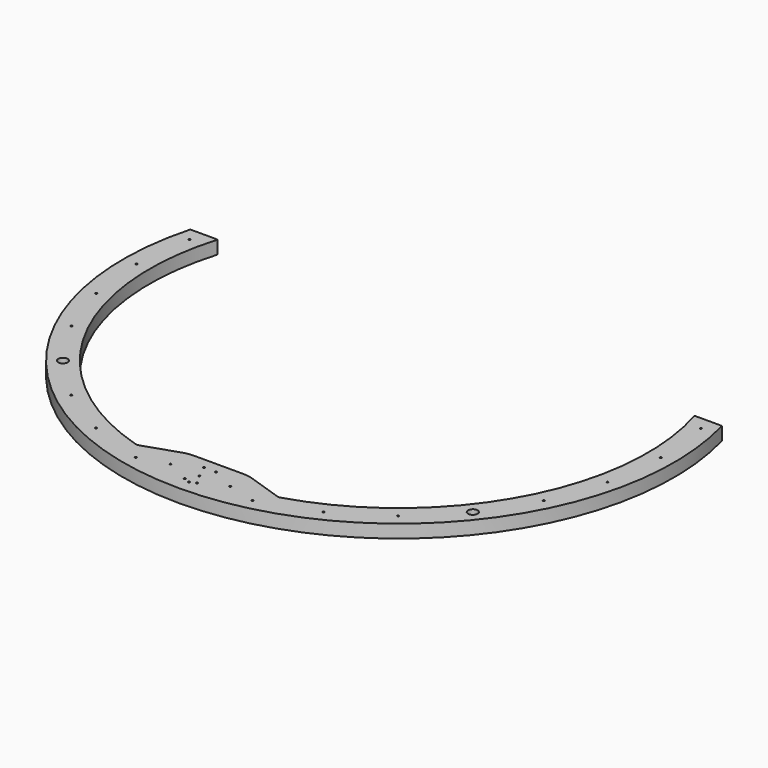
from build123d import *

# Parameters (mm, degrees)
F1_DEPTH = 11
F2_R     = 28.523991
F3_R     = 5
F5_R     = 0.75
F6_DEPTH = 11.001
F7_R     = 4
F8_DEPTH = 11.001


with BuildPart() as f1:
    # F0 (on Top) → F1 (new body)
    with BuildSketch(Plane.XY):
        with BuildLine():
            ThreePointArc((-59.119348, -199.42142), (-183.034682, -98.804378), (-199.158229, 60))
            Line((-199.158229, 60), (-222.036033, 60))
            ThreePointArc((-222.036033, 60), (0, -230), (222.036033, 60))
            Line((222.036033, 60), (199.158229, 60))
            ThreePointArc((199.158229, 60), (183.034682, -98.804378), (59.119348, -199.42142))
            Line((59.119348, -199.42142), (25, -188))
            Line((25, -188), (0, -188))
            Line((0, -188), (-25, -188))
            Line((-25, -188), (-59.119348, -199.42142))
        make_face()
    extrude(amount=F1_DEPTH)

    # F2
    f2_edges = [f1.edges().sort_by_distance(p)[0] for p in [
        (25, -188, 5.5),
        (-25, -188, 5.5),
    ]]
    fillet(f2_edges, radius=F2_R)

    # F3
    f3_edges = [f1.edges().sort_by_distance(p)[0] for p in [
        (59.119348, -199.42142, 5.5),
        (-59.119348, -199.42142, 5.5),
    ]]
    fillet(f3_edges, radius=F3_R)

    # F5 (on face) → F6 (cut, through all)
    with BuildSketch(Plane.XY.offset(11)):
        with Locations((0, -219)):
            Circle(F5_R)
        with Locations((48.732085, -213.509213)):
            Circle(F5_R)
        with Locations((95.020539, -197.312182)):
            Circle(F5_R)
        with Locations((136.544267, -171.221095)):
            Circle(F5_R)
        with Locations((171.221095, -136.544267)):
            Circle(F5_R)
        with Locations((197.312182, -95.020539)):
            Circle(F5_R)
        with Locations((213.509213, -48.732085)):
            Circle(F5_R)
        with Locations((219, 0)):
            Circle(F5_R)
        with Locations((213.509213, 48.732085)):
            Circle(F5_R)
        with Locations((197.312182, 95.020539)):
            Circle(F5_R)
        with Locations((171.221095, 136.544267)):
            Circle(F5_R)
        with Locations((136.544267, 171.221095)):
            Circle(F5_R)
        with Locations((95.020539, 197.312182)):
            Circle(F5_R)
        with Locations((48.732085, 213.509213)):
            Circle(F5_R)
        with Locations((0, 219)):
            Circle(F5_R)
        with Locations((-48.732085, 213.509213)):
            Circle(F5_R)
        with Locations((-95.020539, 197.312182)):
            Circle(F5_R)
        with Locations((-136.544267, 171.221095)):
            Circle(F5_R)
        with Locations((-171.221095, 136.544267)):
            Circle(F5_R)
        with Locations((-197.312182, 95.020539)):
            Circle(F5_R)
        with Locations((-213.509213, 48.732085)):
            Circle(F5_R)
        with Locations((-219, 0)):
            Circle(F5_R)
        with Locations((-213.509213, -48.732085)):
            Circle(F5_R)
        with Locations((-197.312182, -95.020539)):
            Circle(F5_R)
        with Locations((-171.221095, -136.544267)):
            Circle(F5_R)
        with Locations((-136.544267, -171.221095)):
            Circle(F5_R)
        with Locations((-95.020539, -197.312182)):
            Circle(F5_R)
        with Locations((-48.732085, -213.509213)):
            Circle(F5_R)
        with Locations((-5, -197)):
            Circle(F5_R)
        with Locations((5, -197)):
            Circle(F5_R)
        with Locations((0, -208)):
            Circle(F5_R)
        with Locations((-5, -217)):
            Circle(F5_R)
        with Locations((-25, -207)):
            Circle(F5_R)
        with Locations((5, -217)):
            Circle(F5_R)
        with Locations((25, -207)):
            Circle(F5_R)
    extrude(amount=-F6_DEPTH, mode=Mode.SUBTRACT)

    # F7 (on face) → F8 (cut, through all)
    with BuildSketch(Plane.XY.offset(11)):
        with Locations((-171.221095, -136.544267)):
            Circle(F7_R)
        with Locations((171.221095, -136.544267)):
            Circle(F7_R)
    extrude(amount=-F8_DEPTH, mode=Mode.SUBTRACT)


solid = f1.part
